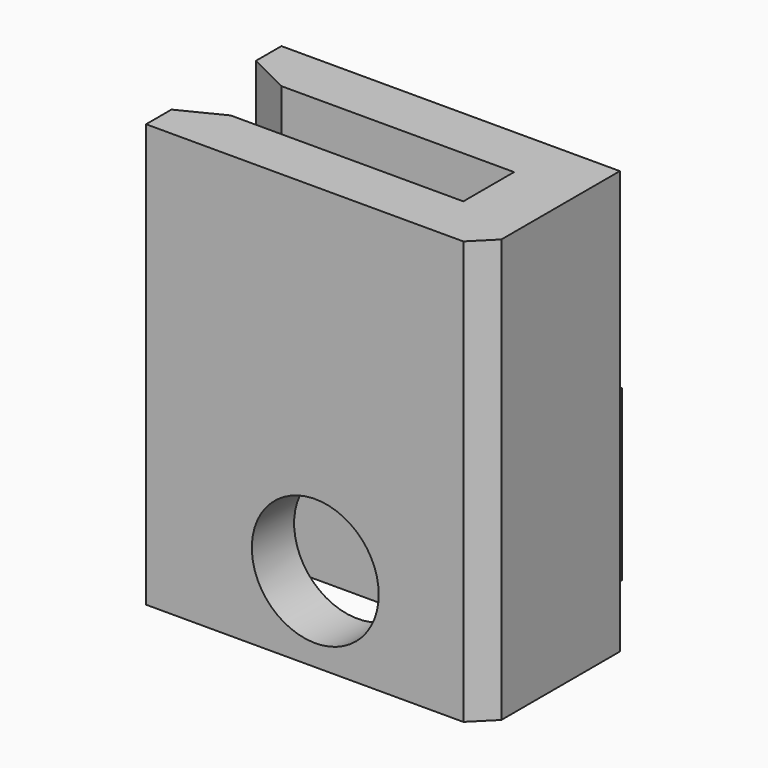
from build123d import *

# Parameters (mm, degrees)
CYLINDER002_R     = 3
CYLINDER002_DEPTH = 10
BOX008_W          = 2.5
BOX008_H          = 2
BOX008_DEPTH      = 8
BOX009_W          = 2.5
BOX009_H          = 2
BOX009_DEPTH      = 8
BOX006_W          = 16
BOX006_H          = 2.5
BOX006_DEPTH      = 20
BOX_W             = 2.5
BOX_H             = 3.5
BOX_DEPTH         = 8
BOX007_W          = 3
BOX007_H          = 8
BOX007_DEPTH      = 20
CYLINDER001_R     = 1
CYLINDER001_DEPTH = 8
BOX001_W          = 2.5
BOX001_H          = 3.5
BOX001_DEPTH      = 8
BOX002_W          = 16
BOX002_H          = 2.5
BOX002_DEPTH      = 20
CYLINDER_R        = 1
CYLINDER_DEPTH    = 8
CHAMFER_SIZE2     = 1
CHAMFER_SIZE      = 2
CHAMFER001_SIZE2  = 1
CHAMFER001_SIZE   = 2
CHAMFER002_SIZE   = 1


with BuildPart() as cylinder002:
    # Cylinder002 → Cylinder002 (new body)
    with BuildSketch(Plane(origin=(0, -5, 4), x_dir=(1, 0, 0), z_dir=(0, -1, 0))):
        Circle(CYLINDER002_R)
    extrude(amount=CYLINDER002_DEPTH)


with BuildPart() as cube008:
    # Box008 → Box008 (new body)
    with BuildSketch(Plane(origin=(-4.5, 2.5, 0), x_dir=(1, 0, 0), z_dir=(0, 0, 1))):
        with Locations((1.25, 1)):
            Rectangle(BOX008_W, BOX008_H)
    extrude(amount=BOX008_DEPTH)


with BuildPart() as cube009:
    # Box009 → Box009 (new body)
    with BuildSketch(Plane(origin=(2, 2.5, 0), x_dir=(1, 0, 0), z_dir=(0, 0, 1))):
        with Locations((1.25, 1)):
            Rectangle(BOX009_W, BOX009_H)
    extrude(amount=BOX009_DEPTH)


with BuildPart() as cube006:
    # Box006 → Box006 (new body)
    with BuildSketch(Plane(origin=(-8, -8, 0), x_dir=(1, 0, 0), z_dir=(0, 0, 1))):
        with Locations((8, 1.25)):
            Rectangle(BOX006_W, BOX006_H)
    extrude(amount=BOX006_DEPTH)


with BuildPart() as cube:
    # Box → Box (new body)
    with BuildSketch(Plane(origin=(-4.5, 0, 0), x_dir=(1, 0, 0), z_dir=(0, 0, 1))):
        with Locations((1.25, 1.75)):
            Rectangle(BOX_W, BOX_H)
    extrude(amount=BOX_DEPTH)


with BuildPart() as cube007:
    # Box007 → Box007 (new body)
    with BuildSketch(Plane(origin=(5, -8, 0), x_dir=(1, 0, 0), z_dir=(0, 0, 1))):
        with Locations((1.5, 4)):
            Rectangle(BOX007_W, BOX007_H)
    extrude(amount=BOX007_DEPTH)


with BuildPart() as cylinder001:
    # Cylinder001 → Cylinder001 (new body)
    with BuildSketch(Plane(origin=(4, 2.5, 0), x_dir=(1, 0, 0), z_dir=(0, 0, 1))):
        Circle(CYLINDER001_R)
    extrude(amount=CYLINDER001_DEPTH)


with BuildPart() as cube001:
    # Box001 → Box001 (new body)
    with BuildSketch(Plane(origin=(2, 0, 0), x_dir=(1, 0, 0), z_dir=(0, 0, 1))):
        with Locations((1.25, 1.75)):
            Rectangle(BOX001_W, BOX001_H)
    extrude(amount=BOX001_DEPTH)


with BuildPart() as cube002:
    # Box002 → Box002 (new body)
    with BuildSketch(Plane(origin=(-8, -2.5, 0), x_dir=(1, 0, 0), z_dir=(0, 0, 1))):
        with Locations((8, 1.25)):
            Rectangle(BOX002_W, BOX002_H)
    extrude(amount=BOX002_DEPTH)


with BuildPart() as side_clip:
    # Cylinder → Cylinder (new body)
    with BuildSketch(Plane(origin=(-4, 2.5, 0), x_dir=(1, 0, 0), z_dir=(0, 0, 1))):
        Circle(CYLINDER_R)
    extrude(amount=CYLINDER_DEPTH)

    # Fusion: union Cube006, Cube, Cube007, Cylinder001, Cube001, Cube002
    add(cube006.part)
    add(cube.part)
    add(cube007.part)
    add(cylinder001.part)
    add(cube001.part)
    add(cube002.part)

    # Chamfer
    chamfer_edges = [side_clip.edges().sort_by_distance(p)[0] for p in [
        (-8, -2.5, 10),
    ]]
    chamfer_side = side_clip.faces().sort_by_distance((-1.5, -2.5, 10))[0]
    chamfer(chamfer_edges, length=CHAMFER_SIZE, length2=CHAMFER_SIZE2, reference=chamfer_side)

    # Chamfer001
    chamfer001_edges = [side_clip.edges().sort_by_distance(p)[0] for p in [
        (-8, -5.5, 10),
    ]]
    chamfer001_side = side_clip.faces().sort_by_distance((-1.5, -5.5, 10))[0]
    chamfer(chamfer001_edges, length=CHAMFER001_SIZE, length2=CHAMFER001_SIZE2, reference=chamfer001_side)

    # Chamfer002
    chamfer002_edges = [side_clip.edges().sort_by_distance(p)[0] for p in [
        (8, -8, 10),
    ]]
    chamfer(chamfer002_edges, length=CHAMFER002_SIZE)

    # Fusion002: union Cube008, Cube009
    add(cube008.part)
    add(cube009.part)

    # Cut: cut Cylinder002
    add(cylinder002.part, mode=Mode.SUBTRACT)


solid = side_clip.part
